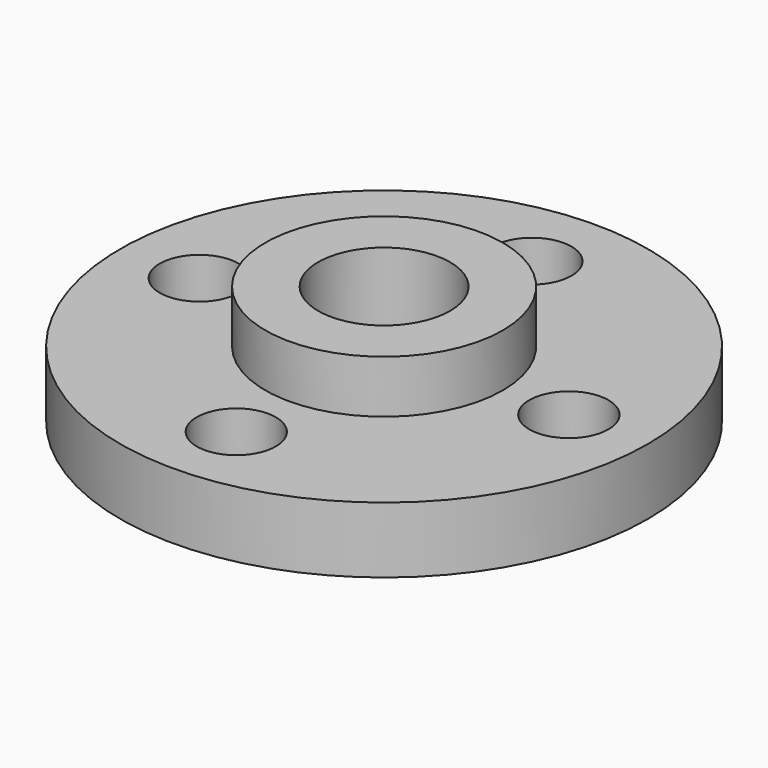
from build123d import *

# Parameters (mm, degrees)
F0_R      = 10
F1_DEPTH  = 2.5
F2_R      = 4.5
F2_R_2    = 2.5
F3_DEPTH  = 2
F3_FACE_R = 2.5
F4_DEPTH  = 1.5
F5_R      = 1.5
F6_DEPTH  = 25


with BuildPart() as f1:
    # F0 (on Top) → F1 (new body)
    with BuildSketch(Plane.XY):
        Circle(F0_R)
    extrude(amount=F1_DEPTH)

    # F2 (on face) → F3 (join)
    with BuildSketch(Plane.XY.offset(2.5)):
        Circle(F2_R)
        Circle(F2_R_2, mode=Mode.SUBTRACT)
    extrude(amount=F3_DEPTH)

    # F3_face (on face) → F4 (cut)
    with BuildSketch(Plane.XY.offset(2.5)):
        Circle(F3_FACE_R)
    extrude(amount=-F4_DEPTH, mode=Mode.SUBTRACT)

    # F5 (on face) → F6 (cut)
    with BuildSketch(Plane(origin=(0, 0, 0), x_dir=(1, 0, 0), z_dir=(0, 0, -1))):
        with Locations((-7, 0)):
            Circle(F5_R)
        with Locations((7, 0)):
            Circle(F5_R)
        with Locations((0, -7)):
            Circle(F5_R)
        with Locations((0, 7)):
            Circle(F5_R)
        Circle(F5_R)
    extrude(amount=-F6_DEPTH, mode=Mode.SUBTRACT)


solid = f1.part
